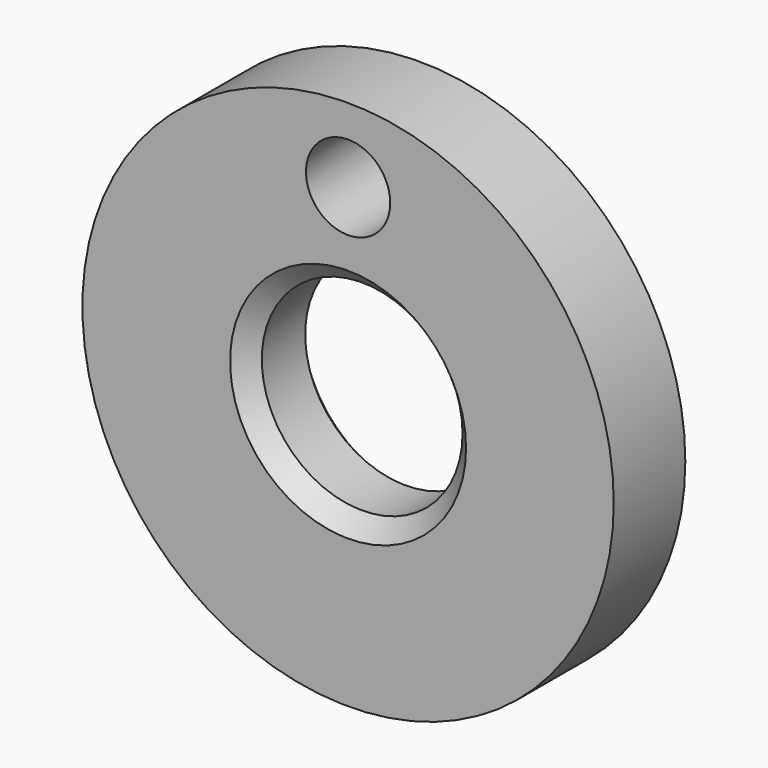
from build123d import *

# Parameters (mm, degrees)
F0_R     = 75.4260527683
F1_DEPTH = 25.4
F2_R     = 25.3745556146
F3_R     = 28.4988575913
F4_DEPTH = 80.4947149009
F6_SIZE  = 5
F7_R     = 11.9569521578
F5_DEPTH = 25.401


with BuildPart() as f1:
    # F0 (on Front) → F1 (new body)
    with BuildSketch(Plane.XZ):
        Circle(F0_R)
    extrude(amount=F1_DEPTH)

    # F2 (on face) + F3 (on face) → F4 (cut)
    with BuildSketch(Plane.XZ.offset(25.4)):
        Circle(F2_R)
    with BuildSketch(Plane.XZ.offset(25.4)):
        Circle(F3_R)
    extrude(amount=-F4_DEPTH, mode=Mode.SUBTRACT)

    # F6
    f6_edges = [f1.edges().sort_by_distance(p)[0] for p in [
        (-28.498858, -25.4, 0),
        (28.498858, -12.7, 0),
        (-28.498858, 0, 0),
    ]]
    chamfer(f6_edges, length=F6_SIZE)

    # F7 (on face) → F5 (cut, through all)
    with BuildSketch(Plane.XZ.offset(25.4)):
        with Locations((0, 54.307743907)):
            Circle(F7_R)
    extrude(amount=-F5_DEPTH, mode=Mode.SUBTRACT)


solid = f1.part
